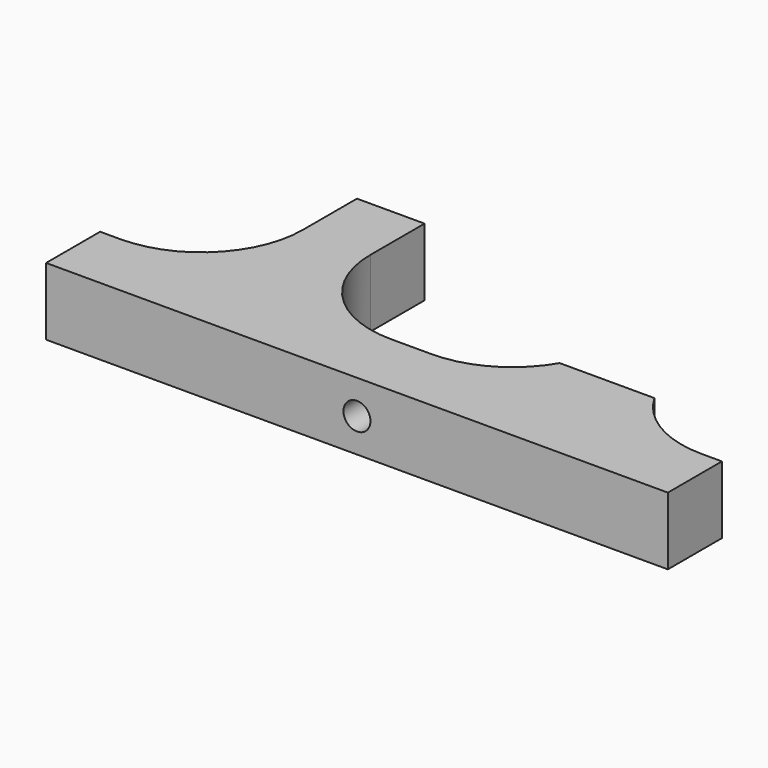
from build123d import *

# Parameters (mm, degrees)
F0_W     = 92
F0_H     = 10
F1_DEPTH = 35
F2_W     = 18
F2_H     = 25
F2_W_2   = 36
F3_DEPTH = 10
F4_R     = 2
F5_DEPTH = 10
F6_R     = 15
F7_W     = 10
F7_H     = 10
F7_W_2   = 4.897156
F7_W_3   = 5.102844
F8_DEPTH = 17.5


with BuildPart() as f1:
    # F0 (on Front) → F1 (new body)
    with BuildSketch(Plane.XZ):
        with Locations((17.840367, 26.957831)):
            Rectangle(F0_W, F0_H)
    extrude(amount=F1_DEPTH)

    # F2 (on face) → F3 (cut)
    with BuildSketch(Plane.XY.offset(31.957831)):
        with Locations((-19.159633, -12.5)):
            Rectangle(F2_W, F2_H)
        with Locations((17.840367, -12.5)):
            Rectangle(F2_W_2, F2_H)
        with Locations((54.840367, -12.5)):
            Rectangle(F2_W, F2_H)
    extrude(amount=-F3_DEPTH, mode=Mode.SUBTRACT)

    # F4 (on face) → F5 (cut)
    with BuildSketch(Plane.XZ.offset(35)):
        with Locations((17.840367, 26.957831)):
            Circle(F4_R)
    extrude(amount=-F5_DEPTH, mode=Mode.SUBTRACT)

    # F6
    f6_edges = [f1.edges().sort_by_distance(p)[0] for p in [
        (-0.159633, -25, 26.957831),
        (45.840367, -25, 26.957831),
        (35.840367, -25, 26.957831),
        (-10.159633, -25, 26.957831),
    ]]
    fillet(f6_edges, radius=F6_R)

    # F7 (on face) → F8 (cut)
    with BuildSketch(Plane(origin=(0, 0, 0), x_dir=(-1, 0, 0), z_dir=(0, 1, 0))):
        with Locations((-40.840367, 26.957831)):
            Rectangle(F7_W, F7_H)
        with Locations((-33.391789, 26.957831)):
            Rectangle(F7_W_2, F7_H)
        with Locations((-48.391789, 26.957831)):
            Rectangle(F7_W_3, F7_H)
    extrude(amount=-F8_DEPTH, mode=Mode.SUBTRACT)


solid = f1.part
